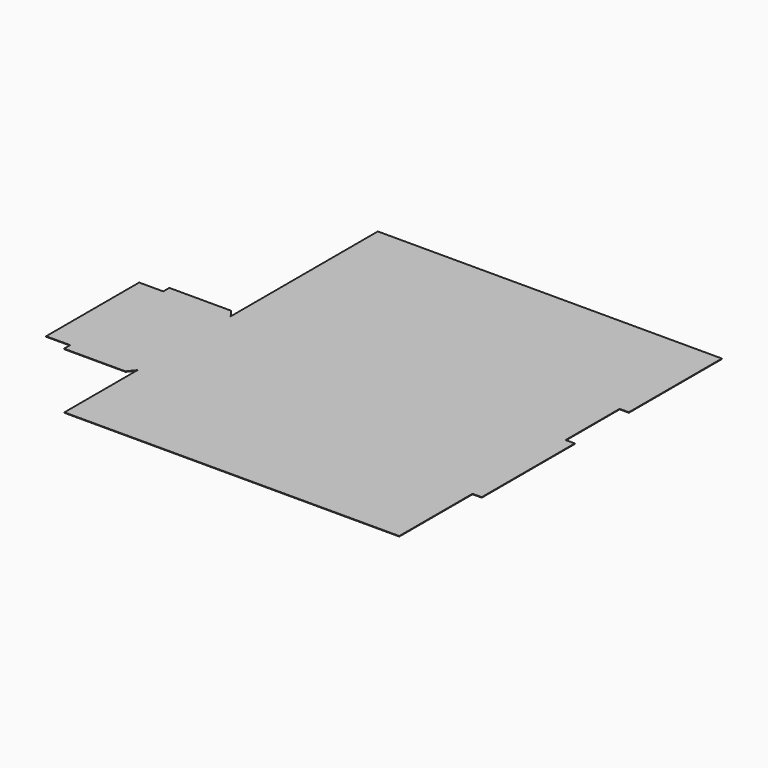
from build123d import *

# Parameters (mm, degrees)
F0_W     = 440
F0_H     = 152.87
F0_H_2   = 88.7
F0_W_2   = 12.1
F0_H_3   = 31.6
F0_W_3   = 88.7
F0_W_4   = 31.6
F1_DEPTH = 0.635


with BuildPart() as f1:
    # F0 (on Top) → F1 (new body)
    with BuildSketch(Plane.XY):
        with Locations((220, 76.435)):
            Rectangle(F0_W, F0_H)
        with Locations((220, -44.35)):
            Rectangle(F0_W, F0_H_2)
        with Locations((446.05, 76.435)):
            Rectangle(F0_W_2, F0_H)
        with Locations((220, -165.135)):
            Rectangle(F0_W, F0_H)
        with Locations((446.05, -165.135)):
            Rectangle(F0_W_2, F0_H)
        with Locations((220, -285.92)):
            Rectangle(F0_W, F0_H_2)
        with Locations((220, -346.07)):
            Rectangle(F0_W, F0_H_3)
        with Locations((-44.35, -165.135)):
            Rectangle(F0_W_3, F0_H)
        with Locations((-104.5, -165.135)):
            Rectangle(F0_W_4, F0_H)
        Polygon((-88.7, -88.7), (0, -88.7), (-7.785694, -78.7), (-88.7, -78.7), align=None)
        Polygon((-7.785694, -251.57), (0, -241.57), (-88.7, -241.57), (-88.7, -251.57), align=None)
    extrude(amount=F1_DEPTH)


solid = f1.part
